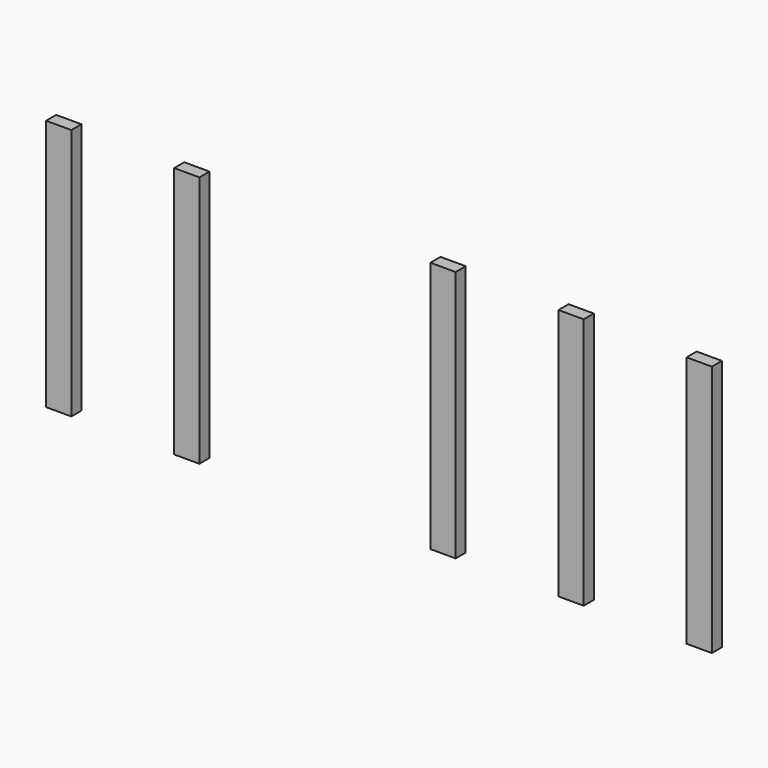
from build123d import *

# Parameters (mm, degrees)
SKETCH003_W  = 0.5
SKETCH003_H  = 5
PAD003_DEPTH = 0.125
SKETCH002_W  = 0.5
SKETCH002_H  = 5
PAD002_DEPTH = 0.125
SKETCH005_W  = 0.5
SKETCH005_H  = 5
PAD005_DEPTH = 0.125
SKETCH004_W  = 0.5
SKETCH004_H  = 5
PAD004_DEPTH = 0.125
SKETCH001_W  = 0.5
SKETCH001_H  = 5
PAD001_DEPTH = 0.125


with BuildPart() as pad003:
    # Sketch003 → Pad003 (new body, symmetric)
    with BuildSketch(Plane(origin=(9.62, -1.25, 0), x_dir=(1, 0, 0), z_dir=(0, -1, 0))):
        with Locations((0, -0.5)):
            Rectangle(SKETCH003_W, SKETCH003_H)
    extrude(amount=PAD003_DEPTH, both=True)


with BuildPart() as pad002:
    # Sketch002 → Pad002 (new body, symmetric)
    with BuildSketch(Plane(origin=(4.54, -1.25, 0), x_dir=(1, 0, 0), z_dir=(0, -1, 0))):
        with Locations((0, -0.5)):
            Rectangle(SKETCH002_W, SKETCH002_H)
    extrude(amount=PAD002_DEPTH, both=True)


with BuildPart() as pad005:
    # Sketch005 → Pad005 (new body, symmetric)
    with BuildSketch(Plane(origin=(14.7, -1.25, 0), x_dir=(1, 0, 0), z_dir=(0, -1, 0))):
        with Locations((0, -0.5)):
            Rectangle(SKETCH005_W, SKETCH005_H)
    extrude(amount=PAD005_DEPTH, both=True)


with BuildPart() as pad004:
    # Sketch004 → Pad004 (new body, symmetric)
    with BuildSketch(Plane(origin=(12.16, -1.25, 0), x_dir=(1, 0, 0), z_dir=(0, -1, 0))):
        with Locations((0, -0.5)):
            Rectangle(SKETCH004_W, SKETCH004_H)
    extrude(amount=PAD004_DEPTH, both=True)


with BuildPart() as fusion:
    # Sketch001 → Pad001 (new body, symmetric)
    with BuildSketch(Plane(origin=(2, -1.25, 0), x_dir=(1, 0, 0), z_dir=(0, -1, 0))):
        with Locations((0, -0.5)):
            Rectangle(SKETCH001_W, SKETCH001_H)
    extrude(amount=PAD001_DEPTH, both=True)

    # Fusion: union Pad003, Pad002, Pad005, Pad004
    add(pad003.part)
    add(pad002.part)
    add(pad005.part)
    add(pad004.part)


solid = fusion.part
